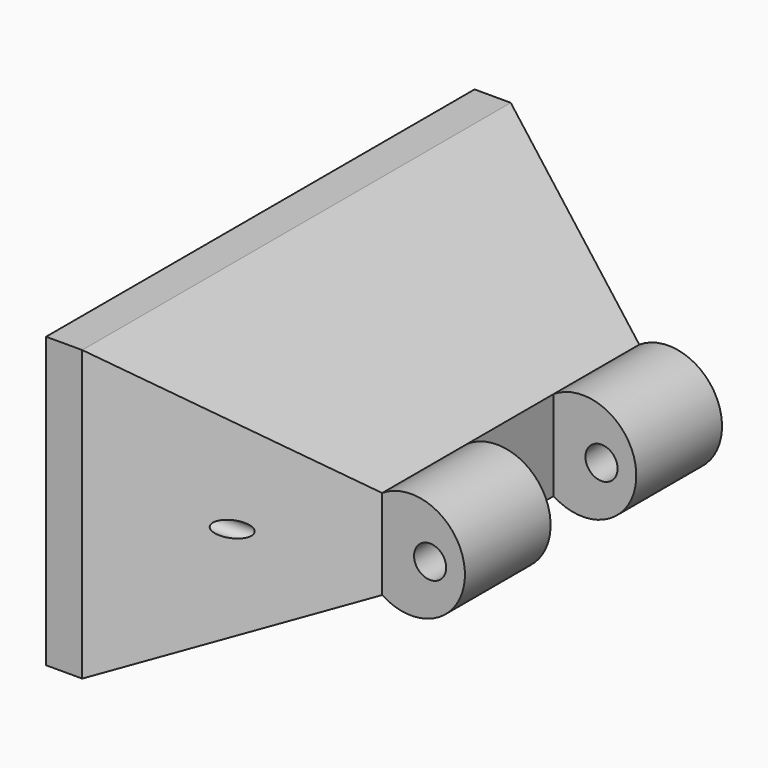
from build123d import *

# Parameters (mm, degrees)
F1_DEPTH  = 30
F3_DEPTH  = 50
F3_FACE_W = 100
F3_FACE_H = 54
F1_FACE_W = 60
F1_FACE_H = 16.774194
F6_W      = 24
F6_H      = 20
F7_DEPTH  = 16.5
F9_D      = 3
F9_2_D    = 3
F10_D     = 6


with BuildPart() as f1:
    # F0 (on Front) → F1 (new body, symmetric)
    with BuildSketch(Plane.XZ):
        with BuildLine():
            Line((0, 8.387097), (0, -8.387097))
            ThreePointArc((0, -8.387097), (15.445788, 0), (0, 8.387097))
        make_face()
    extrude(amount=F1_DEPTH, both=True)

    # F6 (on Top) → F7 (cut, symmetric)
    with BuildSketch(Plane.XY):
        with Locations((12, 0)):
            Rectangle(F6_W, F6_H)
    extrude(amount=F7_DEPTH, both=True, mode=Mode.SUBTRACT)

    # F10 (through all)
    with Locations(Plane.XZ.offset(30)):
        with Locations((8.945788, 0)):
            Hole(F10_D / 2)


with BuildPart() as f3:
    # F2 (on Front) → F3 (new body, symmetric)
    with BuildSketch(Plane.XZ):
        Polygon((-40, 27), (-46.75, 27), (-46.75, 0), (-46.75, -27), (-40, -27), (-40, 0), align=None)
    extrude(amount=F3_DEPTH, both=True)

    # F9 (through all)
    with Locations(Plane.YZ):
        with Locations((-40, 0), (40, 0)):
            Hole(F9_D / 2)


with BuildPart() as f4:
    # F3_face (on face) → F4 section 0
    with BuildSketch(Plane.YZ.offset(-40)):
        Rectangle(F3_FACE_W, F3_FACE_H)
    # F1_face (on face) → F4 section 1
    with BuildSketch(Plane(origin=(0, 0, 0), x_dir=(0, -1, 0), z_dir=(-1, 0, 0))):
        Rectangle(F1_FACE_W, F1_FACE_H)
    loft()

    # F9#2 (through all)
    with Locations(Plane.YZ):
        with Locations((-40, 0), (40, 0)):
            Hole(F9_2_D / 2)


solid = Compound([f1.part, f3.part, f4.part])
